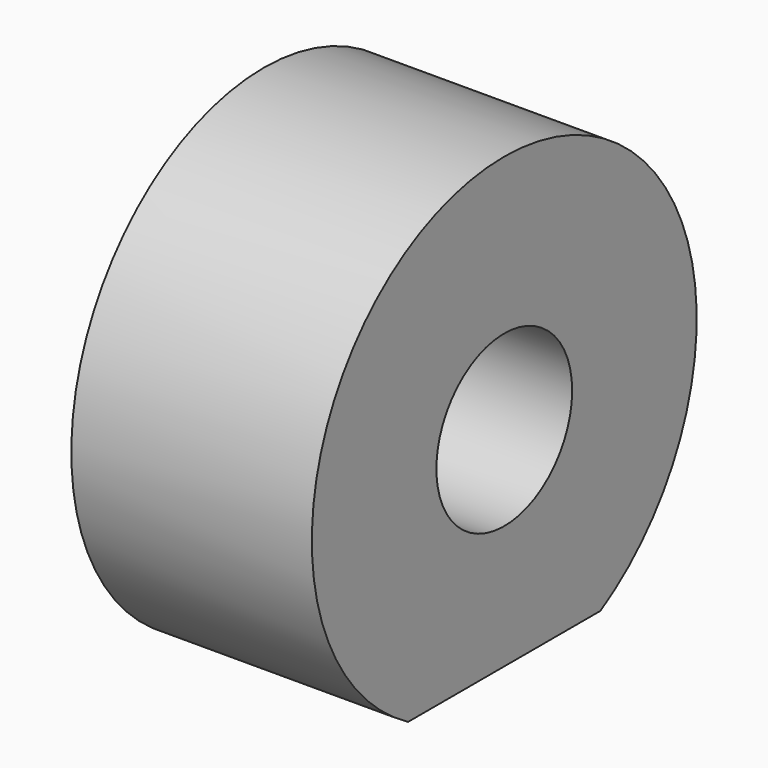
from build123d import *

# Parameters (mm, degrees)
F0_R     = 3.175
F1_DEPTH = 9
F3_DEPTH = 3
F4_R     = 1.5
F5_DEPTH = 6


with BuildPart() as f1:
    # F0 (on Right) → F1 (new body)
    with BuildSketch(Plane.YZ):
        with BuildLine():
            ThreePointArc((4.5, -7.794229), (0, 9), (-4.5, -7.794229))
            Line((-4.5, -7.794229), (4.5, -7.794229))
        make_face()
        Circle(F0_R, mode=Mode.SUBTRACT)
    extrude(amount=F1_DEPTH)

    # F2 (on face) → F3 (cut)
    with BuildSketch(Plane(origin=(0, 0, -7.794229), x_dir=(1, 0, 0), z_dir=(0, 0, -1))):
        Polygon((1.75, 1.587713), (1.75, -1.587713), (4.5, -3.175426), (7.25, -1.587713), (7.25, 1.587713), (4.5, 3.175426), align=None)
    extrude(amount=-F3_DEPTH, mode=Mode.SUBTRACT)

    # F4 (on face) → F5 (cut)
    with BuildSketch(Plane(origin=(0, 0, -7.794229), x_dir=(1, 0, 0), z_dir=(0, 0, -1))):
        with Locations((4.5, 0)):
            Circle(F4_R)
    extrude(amount=-F5_DEPTH, mode=Mode.SUBTRACT)


solid = f1.part
